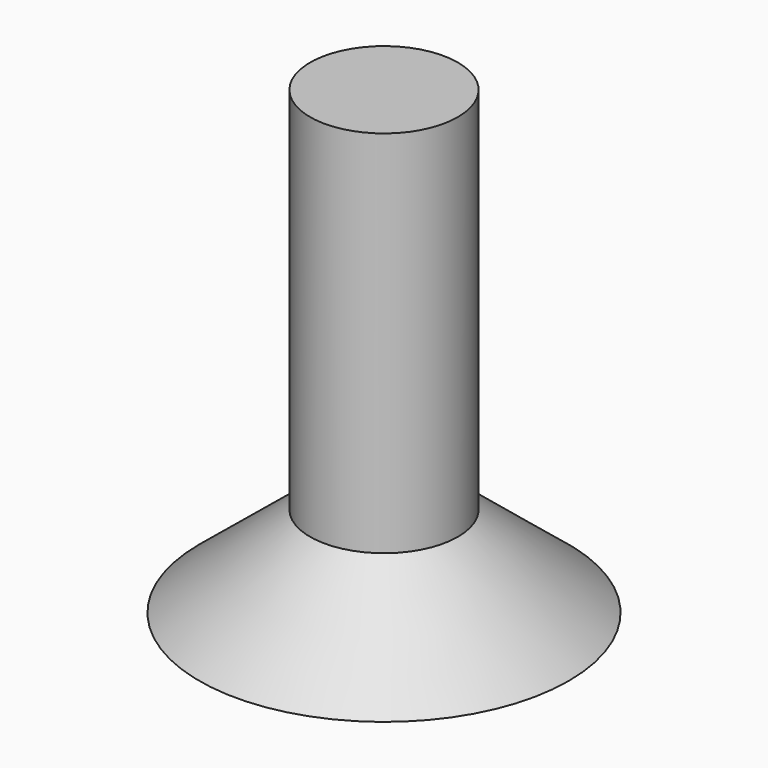
from build123d import *

# Parameters (mm, degrees)
F0_W = 30.48
F0_H = 152.4


with BuildPart() as f1:
    # F0 (on Front) → F1 (revolve)
    with BuildSketch(Plane.XZ):
        Polygon((30.48, -53.405593), (0, -53.405593), (0, -90.849817), (76.2, -90.849817), align=None)
        with Locations((15.24, 22.794407)):
            Rectangle(F0_W, F0_H)
    revolve(axis=Axis((0, 0, -12.025354), (0, 0, 1)))


solid = f1.part
